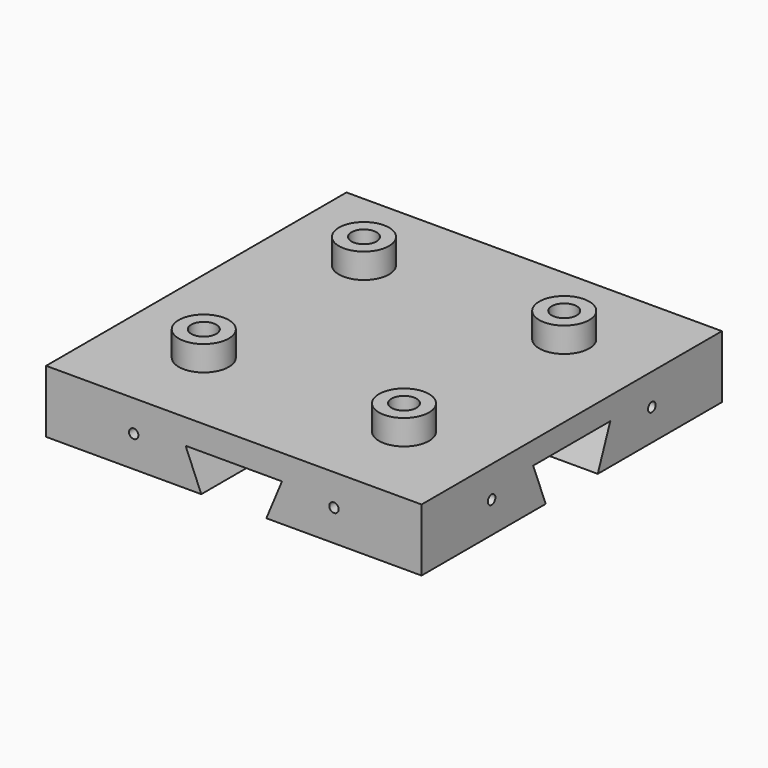
from build123d import *

# Parameters (mm, degrees)
SKETCH_W        = 30
SKETCH_H        = 30
PAD_DEPTH       = 5
SKETCH001_R     = 2
PAD001_DEPTH    = 2
SKETCH002_R     = 1
POCKET_DEPTH    = 7.001
POCKET001_DEPTH = 30.001
POCKET002_DEPTH = 30.001
SKETCH005_R     = 0.375
POCKET003_DEPTH = 30.001
SKETCH006_R     = 0.375
POCKET004_DEPTH = 30.001


with BuildPart() as part:
    # Sketch → Pad (new body)
    with BuildSketch(Plane.XY):
        with Locations((15, 15)):
            Rectangle(SKETCH_W, SKETCH_H)
    extrude(amount=PAD_DEPTH)

    # Sketch001 (on Face6 of Pad) → Pad001 (join)
    with BuildSketch(Plane.XY.offset(5)):
        with Locations((7, 23)):
            Circle(SKETCH001_R)
        with Locations((23, 23)):
            Circle(SKETCH001_R)
        with Locations((7, 7)):
            Circle(SKETCH001_R)
        with Locations((23, 7)):
            Circle(SKETCH001_R)
    extrude(amount=PAD001_DEPTH)

    # Sketch002 (on Face13 of Pad001) → Pocket (cut, through all)
    with BuildSketch(Plane.XY.offset(7)):
        with Locations((7, 23)):
            Circle(SKETCH002_R)
        with Locations((23, 23)):
            Circle(SKETCH002_R)
        with Locations((7, 7)):
            Circle(SKETCH002_R)
        with Locations((23, 7)):
            Circle(SKETCH002_R)
    extrude(amount=-POCKET_DEPTH, mode=Mode.SUBTRACT)

    # Sketch003 (on Face3 of Pocket) → Pocket001 (cut, through all)
    with BuildSketch(Plane.YZ.offset(30)):
        Polygon((12.4, 0), (11.15, 3.2), (18.85, 3.2), (17.6, 0), align=None)
    extrude(amount=-POCKET001_DEPTH, mode=Mode.SUBTRACT)

    # Sketch004 (on Face10 of Pocket001) → Pocket002 (cut, through all)
    with BuildSketch(Plane.XZ):
        Polygon((11.15, 3), (12.4, 0), (17.6, 0), (18.85, 3), align=None)
    extrude(amount=-POCKET002_DEPTH, mode=Mode.SUBTRACT)

    # Sketch005 (on Face7 of Pocket002) → Pocket003 (cut, through all)
    with BuildSketch(Plane.YZ.offset(30)):
        with Locations((7, 2.5)):
            Circle(SKETCH005_R)
        with Locations((23, 2.5)):
            Circle(SKETCH005_R)
    extrude(amount=-POCKET003_DEPTH, mode=Mode.SUBTRACT)

    # Sketch006 (on Face16 of Pocket003) → Pocket004 (cut, through all)
    with BuildSketch(Plane.XZ):
        with Locations((7, 2.5)):
            Circle(SKETCH006_R)
        with Locations((23, 2.5)):
            Circle(SKETCH006_R)
    extrude(amount=-POCKET004_DEPTH, mode=Mode.SUBTRACT)


solid = part.part
